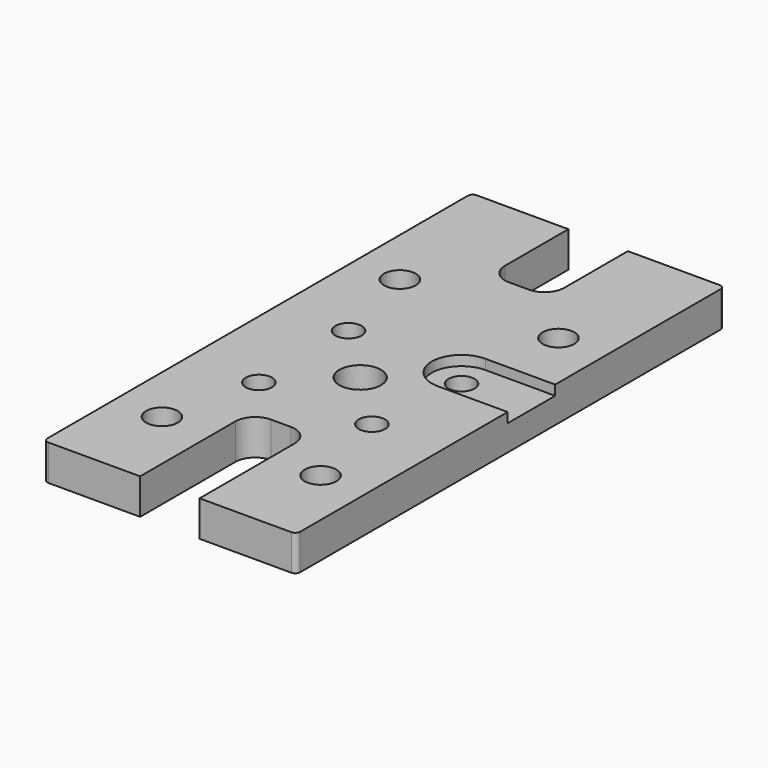
from build123d import *

# Parameters (mm, degrees)
PAD008_DEPTH    = 3.6
SKETCH034_W     = 6
SKETCH034_H     = 14
SKETCH034_H_2   = 10
POCKET014_DEPTH = 5
FILLET007_R     = 2
SKETCH035_R     = 2.1
POCKET019_DEPTH = 5
SKETCH032_R     = 1.325
POCKET020_DEPTH = 5
SKETCH033_R     = 1.6
HOLE004_DEPTH   = 25
FILLET010_R     = 0.5
POCKET043_DEPTH = 1


with BuildPart() as part:
    # Sketch031 → Pad008 (new body)
    with BuildSketch(Plane.XY):
        Polygon((-12.75, 0), (-12.75, -5), (-12.75, -54), (12.75, -54), (12.75, -5), (12.75, 0), align=None)
    extrude(amount=PAD008_DEPTH)

    # Sketch034 (on Face4 of Pad008) → Pocket014 (cut)
    with BuildSketch(Plane.XY.offset(3.6)):
        with Locations((0, -47)):
            Rectangle(SKETCH034_W, SKETCH034_H)
        with Locations((0, -5)):
            Rectangle(SKETCH034_W, SKETCH034_H_2)
    extrude(amount=-POCKET014_DEPTH, mode=Mode.SUBTRACT)

    # Fillet007
    fillet007_edges = [part.edges().sort_by_distance(p)[0] for p in [
        (-3, -10, 1.8),
        (3, -10, 1.8),
        (3, -40, 1.8),
        (-3, -40, 1.8),
    ]]
    fillet(fillet007_edges, radius=FILLET007_R)

    # Sketch035 (on Face4 of Pad008) → Pocket019 (cut)
    with BuildSketch(Plane.XY.offset(3.6)):
        with Locations((0, -30)):
            Circle(SKETCH035_R)
    extrude(amount=-POCKET019_DEPTH, mode=Mode.SUBTRACT)

    # Sketch032 (on Face4 of Pad008) → Pocket020 (cut)
    with BuildSketch(Plane.XY.offset(3.6)):
        with Locations((-5.7, -24.35)):
            Circle(SKETCH032_R)
        with Locations((5.7, -24.35)):
            Circle(SKETCH032_R)
        with Locations((5.7, -35.65)):
            Circle(SKETCH032_R)
        with Locations((-5.7, -35.65)):
            Circle(SKETCH032_R)
    extrude(amount=-POCKET020_DEPTH, mode=Mode.SUBTRACT)

    # Sketch033 (on Face4 of Pad008) → Hole004 (cut)
    with BuildSketch(Plane.XY.offset(3.6)):
        with Locations((-8, -15)):
            Circle(SKETCH033_R)
        with Locations((8, -15)):
            Circle(SKETCH033_R)
        with Locations((-8, -45)):
            Circle(SKETCH033_R)
        with Locations((8, -45)):
            Circle(SKETCH033_R)
    extrude(amount=-HOLE004_DEPTH, mode=Mode.SUBTRACT)

    # Fillet010
    fillet010_edges = [part.edges().sort_by_distance(p)[0] for p in [
        (-12.75, 0, 1.8),
        (-12.75, -54, 1.8),
        (12.75, 0, 1.8),
        (12.75, -54, 1.8),
    ]]
    fillet(fillet010_edges, radius=FILLET010_R)

    # Sketch098 (on Face31 of Fillet010) → Pocket043 (cut)
    with BuildSketch(Plane.XY.offset(3.6)):
        with BuildLine():
            ThreePointArc((5.7, -21.35), (2.7, -24.35), (5.7, -27.35))
            Line((5.7, -27.35), (12.75, -27.35))
            Line((12.75, -21.35), (12.75, -27.35))
            Line((5.7, -21.35), (12.75, -21.35))
        make_face()
    extrude(amount=-POCKET043_DEPTH, mode=Mode.SUBTRACT)


solid = part.part
